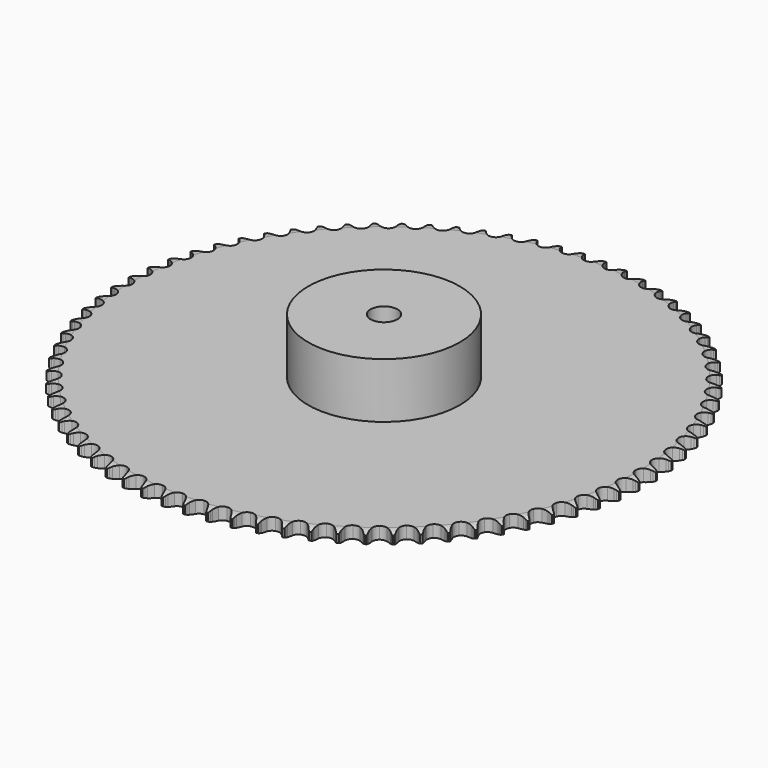
from build123d import *

# Parameters (mm, degrees)
PAD_DEPTH         = 7.2
SKETCH001_R       = 45
PAD001_DEPTH      = 40
SKETCH002_R       = 8
POCKET_DEPTH      = 0.001
POCKET_DEPTH_BACK = 40.001


with BuildPart() as part:
    # Sprocket → Pad (new body)
    with BuildSketch(Plane.XY):
        with BuildLine():
            ThreePointArc((-6.507722, 157.342219), (-5.887136, 156.383888), (-5.435054, 155.335486))
            Line((-5.435054, 155.335486), (-5.023535, 154.10746))
            ThreePointArc((-5.023535, 154.10746), (-4.373702, 152.564742), (-3.499697, 151.137024))
            ThreePointArc((-3.499697, 151.137024), (-1.965744, 149.819577), (0, 149.345733))
            ThreePointArc((0, 149.345733), (1.965744, 149.819577), (3.499697, 151.137024))
            ThreePointArc((3.499697, 151.137024), (4.373702, 152.564742), (5.023535, 154.10746))
            Line((5.023535, 154.10746), (5.435054, 155.335486))
            ThreePointArc((5.435054, 155.335486), (5.887136, 156.383888), (6.507722, 157.342219))
            ThreePointArc((6.507722, 157.342219), (7.047051, 156.335914), (7.411012, 155.25376))
            Line((7.411012, 155.25376), (7.719716, 153.995945))
            ThreePointArc((7.719716, 153.995945), (8.239933, 152.404833), (8.993053, 150.909817))
            ThreePointArc((8.993053, 150.909817), (10.412972, 149.470197), (12.332873, 148.835641))
            ThreePointArc((12.332873, 148.835641), (14.331033, 149.145537), (15.96854, 150.331812))
            Line((15.96854, 150.331812), (17.73247, 153.166264))
            ThreePointArc((17.73247, 153.166264), (17.970898, 153.768641), (18.243994, 154.356113))
            ThreePointArc((18.243994, 154.356113), (18.781107, 155.363602), (19.478713, 156.267412))
            ThreePointArc((19.478713, 156.267412), (19.933099, 155.220007), (20.206453, 154.111493))
            Line((20.206453, 154.111493), (20.410233, 152.832482))
            ThreePointArc((20.410233, 152.832482), (20.797281, 151.203845), (21.424371, 149.651743))
            ThreePointArc((21.424371, 149.651743), (22.720558, 148.099784), (24.5815, 147.308852))
            ThreePointArc((24.5815, 147.308852), (26.598426, 147.452682), (28.328302, 148.499681))
            Line((28.328302, 148.499681), (30.320275, 151.178788))
            ThreePointArc((30.320275, 151.178788), (30.607632, 151.759418), (30.928308, 152.322332))
            ThreePointArc((30.928308, 152.322332), (31.546785, 153.282025), (32.316644, 154.12514))
            ThreePointArc((32.316644, 154.12514), (32.682984, 153.043789), (32.863864, 151.916488))
            Line((32.863864, 151.916488), (32.961328, 150.625017))
            ThreePointArc((32.961328, 150.625017), (33.212562, 148.969982), (33.709339, 147.371396))
            ThreePointArc((33.709339, 147.371396), (34.872939, 145.717699), (36.66221, 144.775793))
            ThreePointArc((36.66221, 144.775793), (38.684125, 144.752576), (40.494553, 145.653146))
            Line((40.494553, 145.653146), (42.700961, 148.158607))
            ThreePointArc((42.700961, 148.158607), (43.035285, 148.713524), (43.401351, 149.248034))
            ThreePointArc((43.401351, 149.248034), (44.096966, 150.153377), (44.933819, 150.930038))
            ThreePointArc((44.933819, 150.930038), (45.209611, 149.822128), (45.296782, 148.68374))
            Line((45.296782, 148.68374), (45.287264, 147.388632))
            ThreePointArc((45.287264, 147.388632), (45.400968, 145.718502), (45.764038, 144.084353))
            ThreePointArc((45.764038, 144.084353), (46.787102, 142.340215), (48.49248, 141.253769))
            ThreePointArc((48.49248, 141.253769), (50.505572, 141.063662), (52.384185, 141.811653))
            Line((52.384185, 141.811653), (54.789957, 144.126353))
            ThreePointArc((54.789957, 144.126353), (55.168963, 144.651766), (55.577918, 145.154222))
            ThreePointArc((55.577918, 145.154222), (56.34592, 145.999028), (57.244051, 146.70393))
            ThreePointArc((57.244051, 146.70393), (57.427411, 145.577029), (57.420276, 144.435331))
            Line((57.420276, 144.435331), (57.303842, 143.145432))
            ThreePointArc((57.303842, 143.145432), (57.279239, 141.471617), (57.506122, 139.813068))
            ThreePointArc((57.506122, 139.813068), (58.381662, 137.990403), (59.991498, 136.766839))
            ThreePointArc((59.991498, 136.766839), (61.982015, 136.411141), (63.91598, 137.001443))
            Line((63.91598, 137.001443), (66.504681, 139.10957))
            ThreePointArc((66.504681, 139.10957), (66.925782, 139.60189), (67.374832, 140.068858))
            ThreePointArc((67.374832, 140.068858), (68.209974, 140.847358), (69.163248, 141.475685))
            ThreePointArc((69.163248, 141.475685), (69.252923, 140.337492), (69.151532, 139.200282))
            Line((69.151532, 139.200282), (68.928976, 137.924404))
            ThreePointArc((68.928976, 137.924404), (68.766235, 136.258338), (68.855381, 134.586717))
            ThreePointArc((68.855381, 134.586717), (69.577416, 132.697976), (71.080712, 131.345652))
            ThreePointArc((71.080712, 131.345652), (73.035057, 130.826794), (75.011164, 131.255374))
            Line((75.011164, 131.255374), (77.765111, 133.142527))
            ThreePointArc((77.765111, 133.142527), (78.225429, 133.598392), (78.711507, 134.026683))
            ThreePointArc((78.711507, 134.026683), (79.608085, 134.733558), (80.60999, 135.281018))
            ThreePointArc((80.60999, 135.281018), (80.605367, 134.139307), (80.410413, 133.014355))
            Line((80.410413, 133.014355), (80.083256, 131.761213))
            ThreePointArc((80.083256, 131.761213), (79.783488, 130.114276), (79.734288, 128.441003))
            ThreePointArc((79.734288, 128.441003), (80.297886, 126.499088), (81.684374, 125.027241))
            ThreePointArc((81.684374, 125.027241), (83.589197, 124.348767), (85.593946, 124.612697))
            Line((85.593946, 124.612697), (88.494327, 126.265986))
            ThreePointArc((88.494327, 126.265986), (88.990717, 126.682281), (89.510503, 127.068969))
            ThreePointArc((89.510503, 127.068969), (90.462392, 127.699391), (91.506084, 128.162245))
            ThreePointArc((91.506084, 128.162245), (91.407195, 127.024815), (91.120009, 125.919804))
            Line((91.120009, 125.919804), (90.690486, 124.697958))
            ThreePointArc((90.690486, 124.697958), (90.255739, 123.081401), (90.068529, 121.417907))
            ThreePointArc((90.068529, 121.417907), (90.46984, 119.436082), (91.730048, 117.854768))
            ThreePointArc((91.730048, 117.854768), (93.572337, 117.021312), (95.592034, 117.11879))
            Line((95.592034, 117.11879), (98.619036, 118.52692))
            ThreePointArc((98.619036, 118.52692), (99.148108, 118.900802), (99.698052, 119.243245))
            ThreePointArc((99.698052, 119.243245), (100.69875, 119.792908), (101.777099, 120.167993))
            ThreePointArc((101.777099, 120.167993), (101.584619, 119.042614), (101.207163, 117.965093))
            Line((101.207163, 117.965093), (100.678208, 116.782891))
            ThreePointArc((100.678208, 116.782891), (100.111451, 115.207756), (99.78751, 113.565403))
            ThreePointArc((99.78751, 113.565403), (100.023793, 111.557207), (101.149113, 109.877227))
            ThreePointArc((101.149113, 109.877227), (102.916283, 108.894482), (104.937132, 108.824842))
            Line((104.937132, 108.824842), (108.070077, 109.978195))
            ThreePointArc((108.070077, 109.978195), (108.628218, 110.307109), (109.204561, 110.602969))
            ThreePointArc((109.204561, 110.602969), (110.247232, 111.068117), (111.352872, 111.352872))
            ThreePointArc((111.352872, 111.352872), (111.068117, 110.247232), (110.602969, 109.204561))
            Line((110.602969, 109.204561), (109.978195, 108.070077))
            ThreePointArc((109.978195, 108.070077), (109.283301, 106.547125), (108.824842, 104.937132))
            ThreePointArc((108.824842, 104.937132), (108.894482, 102.916283), (109.877227, 101.149113))
            ThreePointArc((109.877227, 101.149113), (111.557207, 100.023793), (113.565403, 99.78751))
            Line((113.565403, 99.78751), (116.782891, 100.678208))
            ThreePointArc((116.782891, 100.678208), (117.366286, 100.959907), (117.965093, 101.207163))
            ThreePointArc((117.965093, 101.207163), (119.042614, 101.584619), (120.167993, 101.777099))
            ThreePointArc((120.167993, 101.777099), (119.792908, 100.69875), (119.243245, 99.698052))
            Line((119.243245, 99.698052), (118.52692, 98.619036))
            ThreePointArc((118.52692, 98.619036), (117.708635, 97.158669), (117.11879, 95.592034))
            ThreePointArc((117.11879, 95.592034), (117.021312, 93.572337), (117.854768, 91.730048))
            ThreePointArc((117.854768, 91.730048), (119.436082, 90.46984), (121.417907, 90.068529))
            Line((121.417907, 90.068529), (124.697958, 90.690486))
            ThreePointArc((124.697958, 90.690486), (125.302624, 90.923047), (125.919804, 91.120009))
            ThreePointArc((125.919804, 91.120009), (127.024815, 91.407195), (128.162245, 91.506084))
            ThreePointArc((128.162245, 91.506084), (127.699391, 90.462392), (127.068969, 89.510503))
            Line((127.068969, 89.510503), (126.265986, 88.494327))
            ThreePointArc((126.265986, 88.494327), (125.329899, 87.106521), (124.612697, 85.593946))
            ThreePointArc((124.612697, 85.593946), (124.348767, 83.589197), (125.027241, 81.684374))
            ThreePointArc((125.027241, 81.684374), (126.499088, 80.297886), (128.441003, 79.734288))
            Line((128.441003, 79.734288), (131.761213, 80.083256))
            ThreePointArc((131.761213, 80.083256), (132.383018, 80.26509), (133.014355, 80.410413))
            ThreePointArc((133.014355, 80.410413), (134.139307, 80.605367), (135.281018, 80.60999))
            ThreePointArc((135.281018, 80.60999), (134.733558, 79.608085), (134.026683, 78.711507))
            Line((134.026683, 78.711507), (133.142527, 77.765111))
            ThreePointArc((133.142527, 77.765111), (132.095034, 76.459347), (131.255374, 75.011164))
            ThreePointArc((131.255374, 75.011164), (130.826794, 73.035057), (131.345652, 71.080712))
            ThreePointArc((131.345652, 71.080712), (132.697976, 69.577416), (134.586717, 68.855381))
            Line((134.586717, 68.855381), (137.924404, 68.928976))
            ThreePointArc((137.924404, 68.928976), (138.559101, 69.058841), (139.200282, 69.151532))
            ThreePointArc((139.200282, 69.151532), (140.337492, 69.252923), (141.475685, 69.163248))
            ThreePointArc((141.475685, 69.163248), (140.847358, 68.209974), (140.068858, 67.374832))
            Line((140.068858, 67.374832), (139.10957, 66.504681))
            ThreePointArc((139.10957, 66.504681), (137.957825, 65.289878), (137.001443, 63.91598))
            ThreePointArc((137.001443, 63.91598), (136.411141, 61.982015), (136.766839, 59.991498))
            ThreePointArc((136.766839, 59.991498), (137.990403, 58.381662), (139.813068, 57.506122))
            Line((139.813068, 57.506122), (143.145432, 57.303842))
            ThreePointArc((143.145432, 57.303842), (143.788685, 57.38085), (144.435331, 57.420276))
            ThreePointArc((144.435331, 57.420276), (145.577029, 57.427411), (146.70393, 57.244051))
            ThreePointArc((146.70393, 57.244051), (145.999028, 56.34592), (145.154222, 55.577918))
            Line((145.154222, 55.577918), (144.126353, 54.789957))
            ThreePointArc((144.126353, 54.789957), (142.878225, 53.674413), (141.811653, 52.384185))
            ThreePointArc((141.811653, 52.384185), (141.063662, 50.505572), (141.253769, 48.49248))
            ThreePointArc((141.253769, 48.49248), (142.340215, 46.787102), (144.084353, 45.764038))
            Line((144.084353, 45.764038), (147.388632, 45.287264))
            ThreePointArc((147.388632, 45.287264), (148.036047, 45.31089), (148.68374, 45.296782))
            ThreePointArc((148.68374, 45.296782), (149.822128, 45.209611), (150.930038, 44.933819))
            ThreePointArc((150.930038, 44.933819), (150.153377, 44.096966), (149.248034, 43.401351))
            Line((149.248034, 43.401351), (148.158607, 42.700961))
            ThreePointArc((148.158607, 42.700961), (146.822621, 41.692298), (145.653146, 40.494553))
            ThreePointArc((145.653146, 40.494553), (144.752576, 38.684125), (144.775793, 36.66221))
            ThreePointArc((144.775793, 36.66221), (145.717699, 34.872939), (147.371396, 33.709339))
            Line((147.371396, 33.709339), (150.625017, 32.961328))
            ThreePointArc((150.625017, 32.961328), (151.272173, 32.93141), (151.916488, 32.863864))
            ThreePointArc((151.916488, 32.863864), (153.043789, 32.682984), (154.12514, 32.316644))
            ThreePointArc((154.12514, 32.316644), (153.282025, 31.546785), (152.322332, 30.928308))
            Line((152.322332, 30.928308), (151.178788, 30.320275))
            ThreePointArc((151.178788, 30.320275), (149.76407, 29.425381), (148.499681, 28.328302))
            ThreePointArc((148.499681, 28.328302), (147.452682, 26.598426), (147.308852, 24.5815))
            ThreePointArc((147.308852, 24.5815), (148.099784, 22.720558), (149.651743, 21.424371))
            Line((149.651743, 21.424371), (152.832482, 20.410233))
            ThreePointArc((152.832482, 20.410233), (153.474956, 20.326976), (154.111493, 20.206453))
            ThreePointArc((154.111493, 20.206453), (155.220007, 19.933099), (156.267412, 19.478713))
            ThreePointArc((156.267412, 19.478713), (155.363602, 18.781107), (154.356113, 18.243994))
            Line((154.356113, 18.243994), (153.166264, 17.73247))
            ThreePointArc((153.166264, 17.73247), (151.682478, 16.95746), (150.331812, 15.96854))
            ThreePointArc((150.331812, 15.96854), (149.145537, 14.331033), (148.835641, 12.332873))
            ThreePointArc((148.835641, 12.332873), (149.470197, 10.412972), (150.909817, 8.993053))
            Line((150.909817, 8.993053), (153.995945, 7.719716))
            ThreePointArc((153.995945, 7.719716), (154.629349, 7.583688), (155.25376, 7.411012))
            ThreePointArc((155.25376, 7.411012), (156.335914, 7.047051), (157.342219, 6.507722))
            ThreePointArc((157.342219, 6.507722), (156.383888, 5.887136), (155.335486, 5.435054))
            Line((155.335486, 5.435054), (154.10746, 5.023535))
            ThreePointArc((154.10746, 5.023535), (152.564742, 4.373702), (151.137024, 3.499697))
            ThreePointArc((151.137024, 3.499697), (149.819577, 1.965744), (149.345733, 0))
            ThreePointArc((149.345733, 0), (149.819577, -1.965744), (151.137024, -3.499697))
            Line((151.137024, -3.499697), (154.10746, -5.023535))
            ThreePointArc((154.10746, -5.023535), (154.727468, -5.211405), (155.335486, -5.435054))
            ThreePointArc((155.335486, -5.435054), (156.383888, -5.887136), (157.342219, -6.507722))
            ThreePointArc((157.342219, -6.507722), (156.335914, -7.047051), (155.25376, -7.411012))
            Line((155.25376, -7.411012), (153.995945, -7.719716))
            ThreePointArc((153.995945, -7.719716), (152.404833, -8.239933), (150.909817, -8.993053))
            ThreePointArc((150.909817, -8.993053), (149.470197, -10.412972), (148.835641, -12.332873))
            ThreePointArc((148.835641, -12.332873), (149.145537, -14.331033), (150.331812, -15.96854))
            Line((150.331812, -15.96854), (153.166264, -17.73247))
            ThreePointArc((153.166264, -17.73247), (153.768641, -17.970898), (154.356113, -18.243994))
            ThreePointArc((154.356113, -18.243994), (155.363602, -18.781107), (156.267412, -19.478713))
            ThreePointArc((156.267412, -19.478713), (155.220007, -19.933099), (154.111493, -20.206453))
            Line((154.111493, -20.206453), (152.832482, -20.410233))
            ThreePointArc((152.832482, -20.410233), (151.203845, -20.797281), (149.651743, -21.424371))
            ThreePointArc((149.651743, -21.424371), (148.099784, -22.720558), (147.308852, -24.5815))
            ThreePointArc((147.308852, -24.5815), (147.452682, -26.598426), (148.499681, -28.328302))
            Line((148.499681, -28.328302), (151.178788, -30.320275))
            ThreePointArc((151.178788, -30.320275), (151.759418, -30.607632), (152.322332, -30.928308))
            ThreePointArc((152.322332, -30.928308), (153.282025, -31.546785), (154.12514, -32.316644))
            ThreePointArc((154.12514, -32.316644), (153.043789, -32.682984), (151.916488, -32.863864))
            Line((151.916488, -32.863864), (150.625017, -32.961328))
            ThreePointArc((150.625017, -32.961328), (148.969982, -33.212562), (147.371396, -33.709339))
            ThreePointArc((147.371396, -33.709339), (145.717699, -34.872939), (144.775793, -36.66221))
            ThreePointArc((144.775793, -36.66221), (144.752576, -38.684125), (145.653146, -40.494553))
            Line((145.653146, -40.494553), (148.158607, -42.700961))
            ThreePointArc((148.158607, -42.700961), (148.713524, -43.035285), (149.248034, -43.401351))
            ThreePointArc((149.248034, -43.401351), (150.153377, -44.096966), (150.930038, -44.933819))
            ThreePointArc((150.930038, -44.933819), (149.822128, -45.209611), (148.68374, -45.296782))
            Line((148.68374, -45.296782), (147.388632, -45.287264))
            ThreePointArc((147.388632, -45.287264), (145.718502, -45.400968), (144.084353, -45.764038))
            ThreePointArc((144.084353, -45.764038), (142.340215, -46.787102), (141.253769, -48.49248))
            ThreePointArc((141.253769, -48.49248), (141.063662, -50.505572), (141.811653, -52.384185))
            Line((141.811653, -52.384185), (144.126353, -54.789957))
            ThreePointArc((144.126353, -54.789957), (144.651766, -55.168963), (145.154222, -55.577918))
            ThreePointArc((145.154222, -55.577918), (145.999028, -56.34592), (146.70393, -57.244051))
            ThreePointArc((146.70393, -57.244051), (145.577029, -57.427411), (144.435331, -57.420276))
            Line((144.435331, -57.420276), (143.145432, -57.303842))
            ThreePointArc((143.145432, -57.303842), (141.471617, -57.279239), (139.813068, -57.506122))
            ThreePointArc((139.813068, -57.506122), (137.990403, -58.381662), (136.766839, -59.991498))
            ThreePointArc((136.766839, -59.991498), (136.411141, -61.982015), (137.001443, -63.91598))
            Line((137.001443, -63.91598), (139.10957, -66.504681))
            ThreePointArc((139.10957, -66.504681), (139.60189, -66.925782), (140.068858, -67.374832))
            ThreePointArc((140.068858, -67.374832), (140.847358, -68.209974), (141.475685, -69.163248))
            ThreePointArc((141.475685, -69.163248), (140.337492, -69.252923), (139.200282, -69.151532))
            Line((139.200282, -69.151532), (137.924404, -68.928976))
            ThreePointArc((137.924404, -68.928976), (136.258338, -68.766235), (134.586717, -68.855381))
            ThreePointArc((134.586717, -68.855381), (132.697976, -69.577416), (131.345652, -71.080712))
            ThreePointArc((131.345652, -71.080712), (130.826794, -73.035057), (131.255374, -75.011164))
            Line((131.255374, -75.011164), (133.142527, -77.765111))
            ThreePointArc((133.142527, -77.765111), (133.598392, -78.225429), (134.026683, -78.711507))
            ThreePointArc((134.026683, -78.711507), (134.733558, -79.608085), (135.281018, -80.60999))
            ThreePointArc((135.281018, -80.60999), (134.139307, -80.605367), (133.014355, -80.410413))
            Line((133.014355, -80.410413), (131.761213, -80.083256))
            ThreePointArc((131.761213, -80.083256), (130.114276, -79.783488), (128.441003, -79.734288))
            ThreePointArc((128.441003, -79.734288), (126.499088, -80.297886), (125.027241, -81.684374))
            ThreePointArc((125.027241, -81.684374), (124.348767, -83.589197), (124.612697, -85.593946))
            Line((124.612697, -85.593946), (126.265986, -88.494327))
            ThreePointArc((126.265986, -88.494327), (126.682281, -88.990717), (127.068969, -89.510503))
            ThreePointArc((127.068969, -89.510503), (127.699391, -90.462392), (128.162245, -91.506084))
            ThreePointArc((128.162245, -91.506084), (127.024815, -91.407195), (125.919804, -91.120009))
            Line((125.919804, -91.120009), (124.697958, -90.690486))
            ThreePointArc((124.697958, -90.690486), (123.081401, -90.255739), (121.417907, -90.068529))
            ThreePointArc((121.417907, -90.068529), (119.436082, -90.46984), (117.854768, -91.730048))
            ThreePointArc((117.854768, -91.730048), (117.021312, -93.572337), (117.11879, -95.592034))
            Line((117.11879, -95.592034), (118.52692, -98.619036))
            ThreePointArc((118.52692, -98.619036), (118.900802, -99.148108), (119.243245, -99.698052))
            ThreePointArc((119.243245, -99.698052), (119.792908, -100.69875), (120.167993, -101.777099))
            ThreePointArc((120.167993, -101.777099), (119.042614, -101.584619), (117.965093, -101.207163))
            Line((117.965093, -101.207163), (116.782891, -100.678208))
            ThreePointArc((116.782891, -100.678208), (115.207756, -100.111451), (113.565403, -99.78751))
            ThreePointArc((113.565403, -99.78751), (111.557207, -100.023793), (109.877227, -101.149113))
            ThreePointArc((109.877227, -101.149113), (108.894482, -102.916283), (108.824842, -104.937132))
            Line((108.824842, -104.937132), (109.978195, -108.070077))
            ThreePointArc((109.978195, -108.070077), (110.307109, -108.628218), (110.602969, -109.204561))
            ThreePointArc((110.602969, -109.204561), (111.068117, -110.247232), (111.352872, -111.352872))
            ThreePointArc((111.352872, -111.352872), (110.247232, -111.068117), (109.204561, -110.602969))
            Line((109.204561, -110.602969), (108.070077, -109.978195))
            ThreePointArc((108.070077, -109.978195), (106.547125, -109.283301), (104.937132, -108.824842))
            ThreePointArc((104.937132, -108.824842), (102.916283, -108.894482), (101.149113, -109.877227))
            ThreePointArc((101.149113, -109.877227), (100.023793, -111.557207), (99.78751, -113.565403))
            Line((99.78751, -113.565403), (100.678208, -116.782891))
            ThreePointArc((100.678208, -116.782891), (100.959907, -117.366286), (101.207163, -117.965093))
            ThreePointArc((101.207163, -117.965093), (101.584619, -119.042614), (101.777099, -120.167993))
            ThreePointArc((101.777099, -120.167993), (100.69875, -119.792908), (99.698052, -119.243245))
            Line((99.698052, -119.243245), (98.619036, -118.52692))
            ThreePointArc((98.619036, -118.52692), (97.158669, -117.708635), (95.592034, -117.11879))
            ThreePointArc((95.592034, -117.11879), (93.572337, -117.021312), (91.730048, -117.854768))
            ThreePointArc((91.730048, -117.854768), (90.46984, -119.436082), (90.068529, -121.417907))
            Line((90.068529, -121.417907), (90.690486, -124.697958))
            ThreePointArc((90.690486, -124.697958), (90.923047, -125.302624), (91.120009, -125.919804))
            ThreePointArc((91.120009, -125.919804), (91.407195, -127.024815), (91.506084, -128.162245))
            ThreePointArc((91.506084, -128.162245), (90.462392, -127.699391), (89.510503, -127.068969))
            Line((89.510503, -127.068969), (88.494327, -126.265986))
            ThreePointArc((88.494327, -126.265986), (87.106521, -125.329899), (85.593946, -124.612697))
            ThreePointArc((85.593946, -124.612697), (83.589197, -124.348767), (81.684374, -125.027241))
            ThreePointArc((81.684374, -125.027241), (80.297886, -126.499088), (79.734288, -128.441003))
            Line((79.734288, -128.441003), (80.083256, -131.761213))
            ThreePointArc((80.083256, -131.761213), (80.26509, -132.383018), (80.410413, -133.014355))
            ThreePointArc((80.410413, -133.014355), (80.605367, -134.139307), (80.60999, -135.281018))
            ThreePointArc((80.60999, -135.281018), (79.608085, -134.733558), (78.711507, -134.026683))
            Line((78.711507, -134.026683), (77.765111, -133.142527))
            ThreePointArc((77.765111, -133.142527), (76.459347, -132.095034), (75.011164, -131.255374))
            ThreePointArc((75.011164, -131.255374), (73.035057, -130.826794), (71.080712, -131.345652))
            ThreePointArc((71.080712, -131.345652), (69.577416, -132.697976), (68.855381, -134.586717))
            Line((68.855381, -134.586717), (68.928976, -137.924404))
            ThreePointArc((68.928976, -137.924404), (69.058841, -138.559101), (69.151532, -139.200282))
            ThreePointArc((69.151532, -139.200282), (69.252923, -140.337492), (69.163248, -141.475685))
            ThreePointArc((69.163248, -141.475685), (68.209974, -140.847358), (67.374832, -140.068858))
            Line((67.374832, -140.068858), (66.504681, -139.10957))
            ThreePointArc((66.504681, -139.10957), (65.289878, -137.957825), (63.91598, -137.001443))
            ThreePointArc((63.91598, -137.001443), (61.982015, -136.411141), (59.991498, -136.766839))
            ThreePointArc((59.991498, -136.766839), (58.381662, -137.990403), (57.506122, -139.813068))
            Line((57.506122, -139.813068), (57.303842, -143.145432))
            ThreePointArc((57.303842, -143.145432), (57.38085, -143.788685), (57.420276, -144.435331))
            ThreePointArc((57.420276, -144.435331), (57.427411, -145.577029), (57.244051, -146.70393))
            ThreePointArc((57.244051, -146.70393), (56.34592, -145.999028), (55.577918, -145.154222))
            Line((55.577918, -145.154222), (54.789957, -144.126353))
            ThreePointArc((54.789957, -144.126353), (53.674413, -142.878225), (52.384185, -141.811653))
            ThreePointArc((52.384185, -141.811653), (50.505572, -141.063662), (48.49248, -141.253769))
            ThreePointArc((48.49248, -141.253769), (46.787102, -142.340215), (45.764038, -144.084353))
            Line((45.764038, -144.084353), (45.287264, -147.388632))
            ThreePointArc((45.287264, -147.388632), (45.31089, -148.036047), (45.296782, -148.68374))
            ThreePointArc((45.296782, -148.68374), (45.209611, -149.822128), (44.933819, -150.930038))
            ThreePointArc((44.933819, -150.930038), (44.096966, -150.153377), (43.401351, -149.248034))
            Line((43.401351, -149.248034), (42.700961, -148.158607))
            ThreePointArc((42.700961, -148.158607), (41.692298, -146.822621), (40.494553, -145.653146))
            ThreePointArc((40.494553, -145.653146), (38.684125, -144.752576), (36.66221, -144.775793))
            ThreePointArc((36.66221, -144.775793), (34.872939, -145.717699), (33.709339, -147.371396))
            Line((33.709339, -147.371396), (32.961328, -150.625017))
            ThreePointArc((32.961328, -150.625017), (32.93141, -151.272173), (32.863864, -151.916488))
            ThreePointArc((32.863864, -151.916488), (32.682984, -153.043789), (32.316644, -154.12514))
            ThreePointArc((32.316644, -154.12514), (31.546785, -153.282025), (30.928308, -152.322332))
            Line((30.928308, -152.322332), (30.320275, -151.178788))
            ThreePointArc((30.320275, -151.178788), (29.425381, -149.76407), (28.328302, -148.499681))
            ThreePointArc((28.328302, -148.499681), (26.598426, -147.452682), (24.5815, -147.308852))
            ThreePointArc((24.5815, -147.308852), (22.720558, -148.099784), (21.424371, -149.651743))
            Line((21.424371, -149.651743), (20.410233, -152.832482))
            ThreePointArc((20.410233, -152.832482), (20.326976, -153.474956), (20.206453, -154.111493))
            ThreePointArc((20.206453, -154.111493), (19.933099, -155.220007), (19.478713, -156.267412))
            ThreePointArc((19.478713, -156.267412), (18.781107, -155.363602), (18.243994, -154.356113))
            Line((18.243994, -154.356113), (17.73247, -153.166264))
            ThreePointArc((17.73247, -153.166264), (16.95746, -151.682478), (15.96854, -150.331812))
            ThreePointArc((15.96854, -150.331812), (14.331033, -149.145537), (12.332873, -148.835641))
            ThreePointArc((12.332873, -148.835641), (10.412972, -149.470197), (8.993053, -150.909817))
            Line((8.993053, -150.909817), (7.719716, -153.995945))
            ThreePointArc((7.719716, -153.995945), (7.583688, -154.629349), (7.411012, -155.25376))
            ThreePointArc((7.411012, -155.25376), (7.047051, -156.335914), (6.507722, -157.342219))
            ThreePointArc((6.507722, -157.342219), (5.887136, -156.383888), (5.435054, -155.335486))
            Line((5.435054, -155.335486), (5.023535, -154.10746))
            ThreePointArc((5.023535, -154.10746), (4.373702, -152.564742), (3.499697, -151.137024))
            ThreePointArc((3.499697, -151.137024), (1.965744, -149.819577), (0, -149.345733))
            ThreePointArc((0, -149.345733), (-1.965744, -149.819577), (-3.499697, -151.137024))
            Line((-3.499697, -151.137024), (-5.023535, -154.10746))
            ThreePointArc((-5.023535, -154.10746), (-5.211405, -154.727468), (-5.435054, -155.335486))
            ThreePointArc((-5.435054, -155.335486), (-5.887136, -156.383888), (-6.507722, -157.342219))
            ThreePointArc((-6.507722, -157.342219), (-7.047051, -156.335914), (-7.411012, -155.25376))
            Line((-7.411012, -155.25376), (-7.719716, -153.995945))
            ThreePointArc((-7.719716, -153.995945), (-8.239933, -152.404833), (-8.993053, -150.909817))
            ThreePointArc((-8.993053, -150.909817), (-10.412972, -149.470197), (-12.332873, -148.835641))
            ThreePointArc((-12.332873, -148.835641), (-14.331033, -149.145537), (-15.96854, -150.331812))
            Line((-15.96854, -150.331812), (-17.73247, -153.166264))
            ThreePointArc((-17.73247, -153.166264), (-17.970898, -153.768641), (-18.243994, -154.356113))
            ThreePointArc((-18.243994, -154.356113), (-18.781107, -155.363602), (-19.478713, -156.267412))
            ThreePointArc((-19.478713, -156.267412), (-19.933099, -155.220007), (-20.206453, -154.111493))
            Line((-20.206453, -154.111493), (-20.410233, -152.832482))
            ThreePointArc((-20.410233, -152.832482), (-20.797281, -151.203845), (-21.424371, -149.651743))
            ThreePointArc((-21.424371, -149.651743), (-22.720558, -148.099784), (-24.5815, -147.308852))
            ThreePointArc((-24.5815, -147.308852), (-26.598426, -147.452682), (-28.328302, -148.499681))
            Line((-28.328302, -148.499681), (-30.320275, -151.178788))
            ThreePointArc((-30.320275, -151.178788), (-30.607632, -151.759418), (-30.928308, -152.322332))
            ThreePointArc((-30.928308, -152.322332), (-31.546785, -153.282025), (-32.316644, -154.12514))
            ThreePointArc((-32.316644, -154.12514), (-32.682984, -153.043789), (-32.863864, -151.916488))
            Line((-32.863864, -151.916488), (-32.961328, -150.625017))
            ThreePointArc((-32.961328, -150.625017), (-33.212562, -148.969982), (-33.709339, -147.371396))
            ThreePointArc((-33.709339, -147.371396), (-34.872939, -145.717699), (-36.66221, -144.775793))
            ThreePointArc((-36.66221, -144.775793), (-38.684125, -144.752576), (-40.494553, -145.653146))
            Line((-40.494553, -145.653146), (-42.700961, -148.158607))
            ThreePointArc((-42.700961, -148.158607), (-43.035285, -148.713524), (-43.401351, -149.248034))
            ThreePointArc((-43.401351, -149.248034), (-44.096966, -150.153377), (-44.933819, -150.930038))
            ThreePointArc((-44.933819, -150.930038), (-45.209611, -149.822128), (-45.296782, -148.68374))
            Line((-45.296782, -148.68374), (-45.287264, -147.388632))
            ThreePointArc((-45.287264, -147.388632), (-45.400968, -145.718502), (-45.764038, -144.084353))
            ThreePointArc((-45.764038, -144.084353), (-46.787102, -142.340215), (-48.49248, -141.253769))
            ThreePointArc((-48.49248, -141.253769), (-50.505572, -141.063662), (-52.384185, -141.811653))
            Line((-52.384185, -141.811653), (-54.789957, -144.126353))
            ThreePointArc((-54.789957, -144.126353), (-55.168963, -144.651766), (-55.577918, -145.154222))
            ThreePointArc((-55.577918, -145.154222), (-56.34592, -145.999028), (-57.244051, -146.70393))
            ThreePointArc((-57.244051, -146.70393), (-57.427411, -145.577029), (-57.420276, -144.435331))
            Line((-57.420276, -144.435331), (-57.303842, -143.145432))
            ThreePointArc((-57.303842, -143.145432), (-57.279239, -141.471617), (-57.506122, -139.813068))
            ThreePointArc((-57.506122, -139.813068), (-58.381662, -137.990403), (-59.991498, -136.766839))
            ThreePointArc((-59.991498, -136.766839), (-61.982015, -136.411141), (-63.91598, -137.001443))
            Line((-63.91598, -137.001443), (-66.504681, -139.10957))
            ThreePointArc((-66.504681, -139.10957), (-66.925782, -139.60189), (-67.374832, -140.068858))
            ThreePointArc((-67.374832, -140.068858), (-68.209974, -140.847358), (-69.163248, -141.475685))
            ThreePointArc((-69.163248, -141.475685), (-69.252923, -140.337492), (-69.151532, -139.200282))
            Line((-69.151532, -139.200282), (-68.928976, -137.924404))
            ThreePointArc((-68.928976, -137.924404), (-68.766235, -136.258338), (-68.855381, -134.586717))
            ThreePointArc((-68.855381, -134.586717), (-69.577416, -132.697976), (-71.080712, -131.345652))
            ThreePointArc((-71.080712, -131.345652), (-73.035057, -130.826794), (-75.011164, -131.255374))
            Line((-75.011164, -131.255374), (-77.765111, -133.142527))
            ThreePointArc((-77.765111, -133.142527), (-78.225429, -133.598392), (-78.711507, -134.026683))
            ThreePointArc((-78.711507, -134.026683), (-79.608085, -134.733558), (-80.60999, -135.281018))
            ThreePointArc((-80.60999, -135.281018), (-80.605367, -134.139307), (-80.410413, -133.014355))
            Line((-80.410413, -133.014355), (-80.083256, -131.761213))
            ThreePointArc((-80.083256, -131.761213), (-79.783488, -130.114276), (-79.734288, -128.441003))
            ThreePointArc((-79.734288, -128.441003), (-80.297886, -126.499088), (-81.684374, -125.027241))
            ThreePointArc((-81.684374, -125.027241), (-83.589197, -124.348767), (-85.593946, -124.612697))
            Line((-85.593946, -124.612697), (-88.494327, -126.265986))
            ThreePointArc((-88.494327, -126.265986), (-88.990717, -126.682281), (-89.510503, -127.068969))
            ThreePointArc((-89.510503, -127.068969), (-90.462392, -127.699391), (-91.506084, -128.162245))
            ThreePointArc((-91.506084, -128.162245), (-91.407195, -127.024815), (-91.120009, -125.919804))
            Line((-91.120009, -125.919804), (-90.690486, -124.697958))
            ThreePointArc((-90.690486, -124.697958), (-90.255739, -123.081401), (-90.068529, -121.417907))
            ThreePointArc((-90.068529, -121.417907), (-90.46984, -119.436082), (-91.730048, -117.854768))
            ThreePointArc((-91.730048, -117.854768), (-93.572337, -117.021312), (-95.592034, -117.11879))
            Line((-95.592034, -117.11879), (-98.619036, -118.52692))
            ThreePointArc((-98.619036, -118.52692), (-99.148108, -118.900802), (-99.698052, -119.243245))
            ThreePointArc((-99.698052, -119.243245), (-100.69875, -119.792908), (-101.777099, -120.167993))
            ThreePointArc((-101.777099, -120.167993), (-101.584619, -119.042614), (-101.207163, -117.965093))
            Line((-101.207163, -117.965093), (-100.678208, -116.782891))
            ThreePointArc((-100.678208, -116.782891), (-100.111451, -115.207756), (-99.78751, -113.565403))
            ThreePointArc((-99.78751, -113.565403), (-100.023793, -111.557207), (-101.149113, -109.877227))
            ThreePointArc((-101.149113, -109.877227), (-102.916283, -108.894482), (-104.937132, -108.824842))
            Line((-104.937132, -108.824842), (-108.070077, -109.978195))
            ThreePointArc((-108.070077, -109.978195), (-108.628218, -110.307109), (-109.204561, -110.602969))
            ThreePointArc((-109.204561, -110.602969), (-110.247232, -111.068117), (-111.352872, -111.352872))
            ThreePointArc((-111.352872, -111.352872), (-111.068117, -110.247232), (-110.602969, -109.204561))
            Line((-110.602969, -109.204561), (-109.978195, -108.070077))
            ThreePointArc((-109.978195, -108.070077), (-109.283301, -106.547125), (-108.824842, -104.937132))
            ThreePointArc((-108.824842, -104.937132), (-108.894482, -102.916283), (-109.877227, -101.149113))
            ThreePointArc((-109.877227, -101.149113), (-111.557207, -100.023793), (-113.565403, -99.78751))
            Line((-113.565403, -99.78751), (-116.782891, -100.678208))
            ThreePointArc((-116.782891, -100.678208), (-117.366286, -100.959907), (-117.965093, -101.207163))
            ThreePointArc((-117.965093, -101.207163), (-119.042614, -101.584619), (-120.167993, -101.777099))
            ThreePointArc((-120.167993, -101.777099), (-119.792908, -100.69875), (-119.243245, -99.698052))
            Line((-119.243245, -99.698052), (-118.52692, -98.619036))
            ThreePointArc((-118.52692, -98.619036), (-117.708635, -97.158669), (-117.11879, -95.592034))
            ThreePointArc((-117.11879, -95.592034), (-117.021312, -93.572337), (-117.854768, -91.730048))
            ThreePointArc((-117.854768, -91.730048), (-119.436082, -90.46984), (-121.417907, -90.068529))
            Line((-121.417907, -90.068529), (-124.697958, -90.690486))
            ThreePointArc((-124.697958, -90.690486), (-125.302624, -90.923047), (-125.919804, -91.120009))
            ThreePointArc((-125.919804, -91.120009), (-127.024815, -91.407195), (-128.162245, -91.506084))
            ThreePointArc((-128.162245, -91.506084), (-127.699391, -90.462392), (-127.068969, -89.510503))
            Line((-127.068969, -89.510503), (-126.265986, -88.494327))
            ThreePointArc((-126.265986, -88.494327), (-125.329899, -87.106521), (-124.612697, -85.593946))
            ThreePointArc((-124.612697, -85.593946), (-124.348767, -83.589197), (-125.027241, -81.684374))
            ThreePointArc((-125.027241, -81.684374), (-126.499088, -80.297886), (-128.441003, -79.734288))
            Line((-128.441003, -79.734288), (-131.761213, -80.083256))
            ThreePointArc((-131.761213, -80.083256), (-132.383018, -80.26509), (-133.014355, -80.410413))
            ThreePointArc((-133.014355, -80.410413), (-134.139307, -80.605367), (-135.281018, -80.60999))
            ThreePointArc((-135.281018, -80.60999), (-134.733558, -79.608085), (-134.026683, -78.711507))
            Line((-134.026683, -78.711507), (-133.142527, -77.765111))
            ThreePointArc((-133.142527, -77.765111), (-132.095034, -76.459347), (-131.255374, -75.011164))
            ThreePointArc((-131.255374, -75.011164), (-130.826794, -73.035057), (-131.345652, -71.080712))
            ThreePointArc((-131.345652, -71.080712), (-132.697976, -69.577416), (-134.586717, -68.855381))
            Line((-134.586717, -68.855381), (-137.924404, -68.928976))
            ThreePointArc((-137.924404, -68.928976), (-138.559101, -69.058841), (-139.200282, -69.151532))
            ThreePointArc((-139.200282, -69.151532), (-140.337492, -69.252923), (-141.475685, -69.163248))
            ThreePointArc((-141.475685, -69.163248), (-140.847358, -68.209974), (-140.068858, -67.374832))
            Line((-140.068858, -67.374832), (-139.10957, -66.504681))
            ThreePointArc((-139.10957, -66.504681), (-137.957825, -65.289878), (-137.001443, -63.91598))
            ThreePointArc((-137.001443, -63.91598), (-136.411141, -61.982015), (-136.766839, -59.991498))
            ThreePointArc((-136.766839, -59.991498), (-137.990403, -58.381662), (-139.813068, -57.506122))
            Line((-139.813068, -57.506122), (-143.145432, -57.303842))
            ThreePointArc((-143.145432, -57.303842), (-143.788685, -57.38085), (-144.435331, -57.420276))
            ThreePointArc((-144.435331, -57.420276), (-145.577029, -57.427411), (-146.70393, -57.244051))
            ThreePointArc((-146.70393, -57.244051), (-145.999028, -56.34592), (-145.154222, -55.577918))
            Line((-145.154222, -55.577918), (-144.126353, -54.789957))
            ThreePointArc((-144.126353, -54.789957), (-142.878225, -53.674413), (-141.811653, -52.384185))
            ThreePointArc((-141.811653, -52.384185), (-141.063662, -50.505572), (-141.253769, -48.49248))
            ThreePointArc((-141.253769, -48.49248), (-142.340215, -46.787102), (-144.084353, -45.764038))
            Line((-144.084353, -45.764038), (-147.388632, -45.287264))
            ThreePointArc((-147.388632, -45.287264), (-148.036047, -45.31089), (-148.68374, -45.296782))
            ThreePointArc((-148.68374, -45.296782), (-149.822128, -45.209611), (-150.930038, -44.933819))
            ThreePointArc((-150.930038, -44.933819), (-150.153377, -44.096966), (-149.248034, -43.401351))
            Line((-149.248034, -43.401351), (-148.158607, -42.700961))
            ThreePointArc((-148.158607, -42.700961), (-146.822621, -41.692298), (-145.653146, -40.494553))
            ThreePointArc((-145.653146, -40.494553), (-144.752576, -38.684125), (-144.775793, -36.66221))
            ThreePointArc((-144.775793, -36.66221), (-145.717699, -34.872939), (-147.371396, -33.709339))
            Line((-147.371396, -33.709339), (-150.625017, -32.961328))
            ThreePointArc((-150.625017, -32.961328), (-151.272173, -32.93141), (-151.916488, -32.863864))
            ThreePointArc((-151.916488, -32.863864), (-153.043789, -32.682984), (-154.12514, -32.316644))
            ThreePointArc((-154.12514, -32.316644), (-153.282025, -31.546785), (-152.322332, -30.928308))
            Line((-152.322332, -30.928308), (-151.178788, -30.320275))
            ThreePointArc((-151.178788, -30.320275), (-149.76407, -29.425381), (-148.499681, -28.328302))
            ThreePointArc((-148.499681, -28.328302), (-147.452682, -26.598426), (-147.308852, -24.5815))
            ThreePointArc((-147.308852, -24.5815), (-148.099784, -22.720558), (-149.651743, -21.424371))
            Line((-149.651743, -21.424371), (-152.832482, -20.410233))
            ThreePointArc((-152.832482, -20.410233), (-153.474956, -20.326976), (-154.111493, -20.206453))
            ThreePointArc((-154.111493, -20.206453), (-155.220007, -19.933099), (-156.267412, -19.478713))
            ThreePointArc((-156.267412, -19.478713), (-155.363602, -18.781107), (-154.356113, -18.243994))
            Line((-154.356113, -18.243994), (-153.166264, -17.73247))
            ThreePointArc((-153.166264, -17.73247), (-151.682478, -16.95746), (-150.331812, -15.96854))
            ThreePointArc((-150.331812, -15.96854), (-149.145537, -14.331033), (-148.835641, -12.332873))
            ThreePointArc((-148.835641, -12.332873), (-149.470197, -10.412972), (-150.909817, -8.993053))
            Line((-150.909817, -8.993053), (-153.995945, -7.719716))
            ThreePointArc((-153.995945, -7.719716), (-154.629349, -7.583688), (-155.25376, -7.411012))
            ThreePointArc((-155.25376, -7.411012), (-156.335914, -7.047051), (-157.342219, -6.507722))
            ThreePointArc((-157.342219, -6.507722), (-156.383888, -5.887136), (-155.335486, -5.435054))
            Line((-155.335486, -5.435054), (-154.10746, -5.023535))
            ThreePointArc((-154.10746, -5.023535), (-152.564742, -4.373702), (-151.137024, -3.499697))
            ThreePointArc((-151.137024, -3.499697), (-149.819577, -1.965744), (-149.345733, 0))
            ThreePointArc((-149.345733, 0), (-149.819577, 1.965744), (-151.137024, 3.499697))
            Line((-151.137024, 3.499697), (-154.10746, 5.023535))
            ThreePointArc((-154.10746, 5.023535), (-154.727468, 5.211405), (-155.335486, 5.435054))
            ThreePointArc((-155.335486, 5.435054), (-156.383888, 5.887136), (-157.342219, 6.507722))
            ThreePointArc((-157.342219, 6.507722), (-156.335914, 7.047051), (-155.25376, 7.411012))
            Line((-155.25376, 7.411012), (-153.995945, 7.719716))
            ThreePointArc((-153.995945, 7.719716), (-152.404833, 8.239933), (-150.909817, 8.993053))
            ThreePointArc((-150.909817, 8.993053), (-149.470197, 10.412972), (-148.835641, 12.332873))
            ThreePointArc((-148.835641, 12.332873), (-149.145537, 14.331033), (-150.331812, 15.96854))
            Line((-150.331812, 15.96854), (-153.166264, 17.73247))
            ThreePointArc((-153.166264, 17.73247), (-153.768641, 17.970898), (-154.356113, 18.243994))
            ThreePointArc((-154.356113, 18.243994), (-155.363602, 18.781107), (-156.267412, 19.478713))
            ThreePointArc((-156.267412, 19.478713), (-155.220007, 19.933099), (-154.111493, 20.206453))
            Line((-154.111493, 20.206453), (-152.832482, 20.410233))
            ThreePointArc((-152.832482, 20.410233), (-151.203845, 20.797281), (-149.651743, 21.424371))
            ThreePointArc((-149.651743, 21.424371), (-148.099784, 22.720558), (-147.308852, 24.5815))
            ThreePointArc((-147.308852, 24.5815), (-147.452682, 26.598426), (-148.499681, 28.328302))
            Line((-148.499681, 28.328302), (-151.178788, 30.320275))
            ThreePointArc((-151.178788, 30.320275), (-151.759418, 30.607632), (-152.322332, 30.928308))
            ThreePointArc((-152.322332, 30.928308), (-153.282025, 31.546785), (-154.12514, 32.316644))
            ThreePointArc((-154.12514, 32.316644), (-153.043789, 32.682984), (-151.916488, 32.863864))
            Line((-151.916488, 32.863864), (-150.625017, 32.961328))
            ThreePointArc((-150.625017, 32.961328), (-148.969982, 33.212562), (-147.371396, 33.709339))
            ThreePointArc((-147.371396, 33.709339), (-145.717699, 34.872939), (-144.775793, 36.66221))
            ThreePointArc((-144.775793, 36.66221), (-144.752576, 38.684125), (-145.653146, 40.494553))
            Line((-145.653146, 40.494553), (-148.158607, 42.700961))
            ThreePointArc((-148.158607, 42.700961), (-148.713524, 43.035285), (-149.248034, 43.401351))
            ThreePointArc((-149.248034, 43.401351), (-150.153377, 44.096966), (-150.930038, 44.933819))
            ThreePointArc((-150.930038, 44.933819), (-149.822128, 45.209611), (-148.68374, 45.296782))
            Line((-148.68374, 45.296782), (-147.388632, 45.287264))
            ThreePointArc((-147.388632, 45.287264), (-145.718502, 45.400968), (-144.084353, 45.764038))
            ThreePointArc((-144.084353, 45.764038), (-142.340215, 46.787102), (-141.253769, 48.49248))
            ThreePointArc((-141.253769, 48.49248), (-141.063662, 50.505572), (-141.811653, 52.384185))
            Line((-141.811653, 52.384185), (-144.126353, 54.789957))
            ThreePointArc((-144.126353, 54.789957), (-144.651766, 55.168963), (-145.154222, 55.577918))
            ThreePointArc((-145.154222, 55.577918), (-145.999028, 56.34592), (-146.70393, 57.244051))
            ThreePointArc((-146.70393, 57.244051), (-145.577029, 57.427411), (-144.435331, 57.420276))
            Line((-144.435331, 57.420276), (-143.145432, 57.303842))
            ThreePointArc((-143.145432, 57.303842), (-141.471617, 57.279239), (-139.813068, 57.506122))
            ThreePointArc((-139.813068, 57.506122), (-137.990403, 58.381662), (-136.766839, 59.991498))
            ThreePointArc((-136.766839, 59.991498), (-136.411141, 61.982015), (-137.001443, 63.91598))
            Line((-137.001443, 63.91598), (-139.10957, 66.504681))
            ThreePointArc((-139.10957, 66.504681), (-139.60189, 66.925782), (-140.068858, 67.374832))
            ThreePointArc((-140.068858, 67.374832), (-140.847358, 68.209974), (-141.475685, 69.163248))
            ThreePointArc((-141.475685, 69.163248), (-140.337492, 69.252923), (-139.200282, 69.151532))
            Line((-139.200282, 69.151532), (-137.924404, 68.928976))
            ThreePointArc((-137.924404, 68.928976), (-136.258338, 68.766235), (-134.586717, 68.855381))
            ThreePointArc((-134.586717, 68.855381), (-132.697976, 69.577416), (-131.345652, 71.080712))
            ThreePointArc((-131.345652, 71.080712), (-130.826794, 73.035057), (-131.255374, 75.011164))
            Line((-131.255374, 75.011164), (-133.142527, 77.765111))
            ThreePointArc((-133.142527, 77.765111), (-133.598392, 78.225429), (-134.026683, 78.711507))
            ThreePointArc((-134.026683, 78.711507), (-134.733558, 79.608085), (-135.281018, 80.60999))
            ThreePointArc((-135.281018, 80.60999), (-134.139307, 80.605367), (-133.014355, 80.410413))
            Line((-133.014355, 80.410413), (-131.761213, 80.083256))
            ThreePointArc((-131.761213, 80.083256), (-130.114276, 79.783488), (-128.441003, 79.734288))
            ThreePointArc((-128.441003, 79.734288), (-126.499088, 80.297886), (-125.027241, 81.684374))
            ThreePointArc((-125.027241, 81.684374), (-124.348767, 83.589197), (-124.612697, 85.593946))
            Line((-124.612697, 85.593946), (-126.265986, 88.494327))
            ThreePointArc((-126.265986, 88.494327), (-126.682281, 88.990717), (-127.068969, 89.510503))
            ThreePointArc((-127.068969, 89.510503), (-127.699391, 90.462392), (-128.162245, 91.506084))
            ThreePointArc((-128.162245, 91.506084), (-127.024815, 91.407195), (-125.919804, 91.120009))
            Line((-125.919804, 91.120009), (-124.697958, 90.690486))
            ThreePointArc((-124.697958, 90.690486), (-123.081401, 90.255739), (-121.417907, 90.068529))
            ThreePointArc((-121.417907, 90.068529), (-119.436082, 90.46984), (-117.854768, 91.730048))
            ThreePointArc((-117.854768, 91.730048), (-117.021312, 93.572337), (-117.11879, 95.592034))
            Line((-117.11879, 95.592034), (-118.52692, 98.619036))
            ThreePointArc((-118.52692, 98.619036), (-118.900802, 99.148108), (-119.243245, 99.698052))
            ThreePointArc((-119.243245, 99.698052), (-119.792908, 100.69875), (-120.167993, 101.777099))
            ThreePointArc((-120.167993, 101.777099), (-119.042614, 101.584619), (-117.965093, 101.207163))
            Line((-117.965093, 101.207163), (-116.782891, 100.678208))
            ThreePointArc((-116.782891, 100.678208), (-115.207756, 100.111451), (-113.565403, 99.78751))
            ThreePointArc((-113.565403, 99.78751), (-111.557207, 100.023793), (-109.877227, 101.149113))
            ThreePointArc((-109.877227, 101.149113), (-108.894482, 102.916283), (-108.824842, 104.937132))
            Line((-108.824842, 104.937132), (-109.978195, 108.070077))
            ThreePointArc((-109.978195, 108.070077), (-110.307109, 108.628218), (-110.602969, 109.204561))
            ThreePointArc((-110.602969, 109.204561), (-111.068117, 110.247232), (-111.352872, 111.352872))
            ThreePointArc((-111.352872, 111.352872), (-110.247232, 111.068117), (-109.204561, 110.602969))
            Line((-109.204561, 110.602969), (-108.070077, 109.978195))
            ThreePointArc((-108.070077, 109.978195), (-106.547125, 109.283301), (-104.937132, 108.824842))
            ThreePointArc((-104.937132, 108.824842), (-102.916283, 108.894482), (-101.149113, 109.877227))
            ThreePointArc((-101.149113, 109.877227), (-100.023793, 111.557207), (-99.78751, 113.565403))
            Line((-99.78751, 113.565403), (-100.678208, 116.782891))
            ThreePointArc((-100.678208, 116.782891), (-100.959907, 117.366286), (-101.207163, 117.965093))
            ThreePointArc((-101.207163, 117.965093), (-101.584619, 119.042614), (-101.777099, 120.167993))
            ThreePointArc((-101.777099, 120.167993), (-100.69875, 119.792908), (-99.698052, 119.243245))
            Line((-99.698052, 119.243245), (-98.619036, 118.52692))
            ThreePointArc((-98.619036, 118.52692), (-97.158669, 117.708635), (-95.592034, 117.11879))
            ThreePointArc((-95.592034, 117.11879), (-93.572337, 117.021312), (-91.730048, 117.854768))
            ThreePointArc((-91.730048, 117.854768), (-90.46984, 119.436082), (-90.068529, 121.417907))
            Line((-90.068529, 121.417907), (-90.690486, 124.697958))
            ThreePointArc((-90.690486, 124.697958), (-90.923047, 125.302624), (-91.120009, 125.919804))
            ThreePointArc((-91.120009, 125.919804), (-91.407195, 127.024815), (-91.506084, 128.162245))
            ThreePointArc((-91.506084, 128.162245), (-90.462392, 127.699391), (-89.510503, 127.068969))
            Line((-89.510503, 127.068969), (-88.494327, 126.265986))
            ThreePointArc((-88.494327, 126.265986), (-87.106521, 125.329899), (-85.593946, 124.612697))
            ThreePointArc((-85.593946, 124.612697), (-83.589197, 124.348767), (-81.684374, 125.027241))
            ThreePointArc((-81.684374, 125.027241), (-80.297886, 126.499088), (-79.734288, 128.441003))
            Line((-79.734288, 128.441003), (-80.083256, 131.761213))
            ThreePointArc((-80.083256, 131.761213), (-80.26509, 132.383018), (-80.410413, 133.014355))
            ThreePointArc((-80.410413, 133.014355), (-80.605367, 134.139307), (-80.60999, 135.281018))
            ThreePointArc((-80.60999, 135.281018), (-79.608085, 134.733558), (-78.711507, 134.026683))
            Line((-78.711507, 134.026683), (-77.765111, 133.142527))
            ThreePointArc((-77.765111, 133.142527), (-76.459347, 132.095034), (-75.011164, 131.255374))
            ThreePointArc((-75.011164, 131.255374), (-73.035057, 130.826794), (-71.080712, 131.345652))
            ThreePointArc((-71.080712, 131.345652), (-69.577416, 132.697976), (-68.855381, 134.586717))
            Line((-68.855381, 134.586717), (-68.928976, 137.924404))
            ThreePointArc((-68.928976, 137.924404), (-69.058841, 138.559101), (-69.151532, 139.200282))
            ThreePointArc((-69.151532, 139.200282), (-69.252923, 140.337492), (-69.163248, 141.475685))
            ThreePointArc((-69.163248, 141.475685), (-68.209974, 140.847358), (-67.374832, 140.068858))
            Line((-67.374832, 140.068858), (-66.504681, 139.10957))
            ThreePointArc((-66.504681, 139.10957), (-65.289878, 137.957825), (-63.91598, 137.001443))
            ThreePointArc((-63.91598, 137.001443), (-61.982015, 136.411141), (-59.991498, 136.766839))
            ThreePointArc((-59.991498, 136.766839), (-58.381662, 137.990403), (-57.506122, 139.813068))
            Line((-57.506122, 139.813068), (-57.303842, 143.145432))
            ThreePointArc((-57.303842, 143.145432), (-57.38085, 143.788685), (-57.420276, 144.435331))
            ThreePointArc((-57.420276, 144.435331), (-57.427411, 145.577029), (-57.244051, 146.70393))
            ThreePointArc((-57.244051, 146.70393), (-56.34592, 145.999028), (-55.577918, 145.154222))
            Line((-55.577918, 145.154222), (-54.789957, 144.126353))
            ThreePointArc((-54.789957, 144.126353), (-53.674413, 142.878225), (-52.384185, 141.811653))
            ThreePointArc((-52.384185, 141.811653), (-50.505572, 141.063662), (-48.49248, 141.253769))
            ThreePointArc((-48.49248, 141.253769), (-46.787102, 142.340215), (-45.764038, 144.084353))
            Line((-45.764038, 144.084353), (-45.287264, 147.388632))
            ThreePointArc((-45.287264, 147.388632), (-45.31089, 148.036047), (-45.296782, 148.68374))
            ThreePointArc((-45.296782, 148.68374), (-45.209611, 149.822128), (-44.933819, 150.930038))
            ThreePointArc((-44.933819, 150.930038), (-44.096966, 150.153377), (-43.401351, 149.248034))
            Line((-43.401351, 149.248034), (-42.700961, 148.158607))
            ThreePointArc((-42.700961, 148.158607), (-41.692298, 146.822621), (-40.494553, 145.653146))
            ThreePointArc((-40.494553, 145.653146), (-38.684125, 144.752576), (-36.66221, 144.775793))
            ThreePointArc((-36.66221, 144.775793), (-34.872939, 145.717699), (-33.709339, 147.371396))
            Line((-33.709339, 147.371396), (-32.961328, 150.625017))
            ThreePointArc((-32.961328, 150.625017), (-32.93141, 151.272173), (-32.863864, 151.916488))
            ThreePointArc((-32.863864, 151.916488), (-32.682984, 153.043789), (-32.316644, 154.12514))
            ThreePointArc((-32.316644, 154.12514), (-31.546785, 153.282025), (-30.928308, 152.322332))
            Line((-30.928308, 152.322332), (-30.320275, 151.178788))
            ThreePointArc((-30.320275, 151.178788), (-29.425381, 149.76407), (-28.328302, 148.499681))
            ThreePointArc((-28.328302, 148.499681), (-26.598426, 147.452682), (-24.5815, 147.308852))
            ThreePointArc((-24.5815, 147.308852), (-22.720558, 148.099784), (-21.424371, 149.651743))
            Line((-21.424371, 149.651743), (-20.410233, 152.832482))
            ThreePointArc((-20.410233, 152.832482), (-20.326976, 153.474956), (-20.206453, 154.111493))
            ThreePointArc((-20.206453, 154.111493), (-19.933099, 155.220007), (-19.478713, 156.267412))
            ThreePointArc((-19.478713, 156.267412), (-18.781107, 155.363602), (-18.243994, 154.356113))
            Line((-18.243994, 154.356113), (-17.73247, 153.166264))
            ThreePointArc((-17.73247, 153.166264), (-16.95746, 151.682478), (-15.96854, 150.331812))
            ThreePointArc((-15.96854, 150.331812), (-14.331033, 149.145537), (-12.332873, 148.835641))
            ThreePointArc((-12.332873, 148.835641), (-10.412972, 149.470197), (-8.993053, 150.909817))
            Line((-8.993053, 150.909817), (-7.719716, 153.995945))
            ThreePointArc((-7.719716, 153.995945), (-7.583688, 154.629349), (-7.411012, 155.25376))
            ThreePointArc((-7.411012, 155.25376), (-7.047051, 156.335914), (-6.507722, 157.342219))
        make_face()
    extrude(amount=PAD_DEPTH)

    # Sketch → Groove (revolve, cut)
    with BuildSketch(Plane.XZ):
        with BuildLine():
            Line((150.983431, 0), (156.65, 0))
            Line((162.316569, 0), (156.65, 0))
            Line((162.316569, 7.2), (162.316569, 0))
            Line((156.65, 7.2), (162.316569, 7.2))
            Line((150.983431, 7.2), (156.65, 7.2))
            ThreePointArc((156.65, 5.9), (153.89032, 6.870833), (150.983431, 7.2))
            Line((156.65, 1.3), (156.65, 5.9))
            ThreePointArc((150.983431, 0), (153.89032, 0.329167), (156.65, 1.3))
        make_face()
    revolve(axis=Axis((0, 0, 0), (0, 0, 1)), mode=Mode.SUBTRACT)

    # Sketch001 → Pad001 (join)
    with BuildSketch(Plane.XY):
        Circle(SKETCH001_R)
    extrude(amount=PAD001_DEPTH)

    # Sketch002 → Pocket (cut, two sides)
    with BuildSketch(Plane.XY) as pocket_sk:
        Circle(SKETCH002_R)
    extrude(amount=-POCKET_DEPTH, mode=Mode.SUBTRACT)
    extrude(pocket_sk.sketch, amount=POCKET_DEPTH_BACK, mode=Mode.SUBTRACT)


solid = part.part
